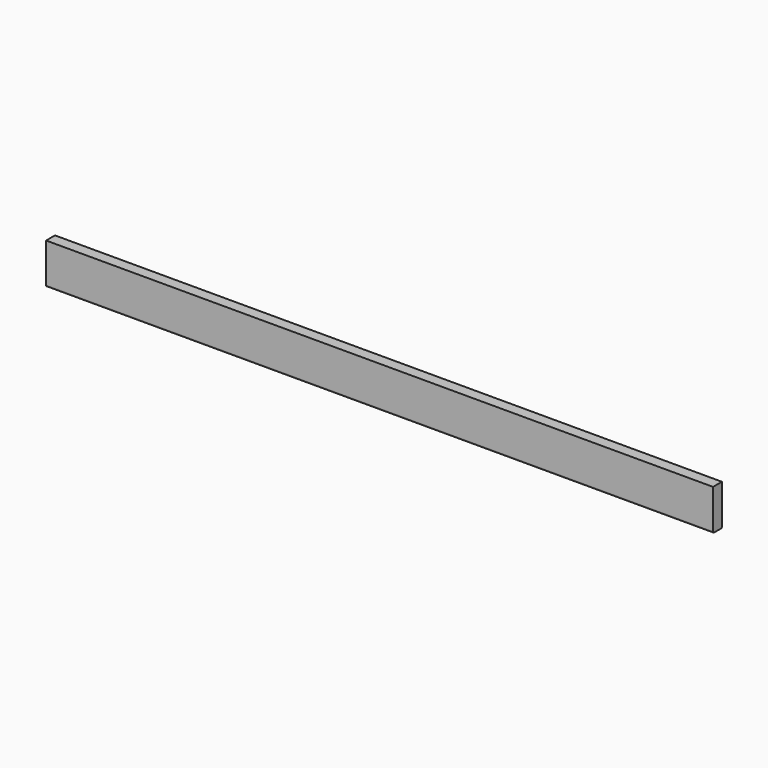
from build123d import *

# Parameters (mm, degrees)
F0_W          = 2286
F0_H          = 139.7
F1_DEPTH      = 19.05
F1_DEPTH_BACK = 19.05
F2_R          = 5.08


with BuildPart() as f1:
    # F0 (on Front) → F1 (new body, two sides)
    with BuildSketch(Plane.XZ) as f1_sk:
        Rectangle(F0_W, F0_H)
    extrude(amount=F1_DEPTH)
    extrude(f1_sk.sketch, amount=-F1_DEPTH_BACK)

    # F2
    f2_edges = [f1.edges().sort_by_distance(p)[0] for p in [
        (0, -19.05, -69.85),
        (0, 19.05, -69.85),
    ]]
    fillet(f2_edges, radius=F2_R)


solid = f1.part
